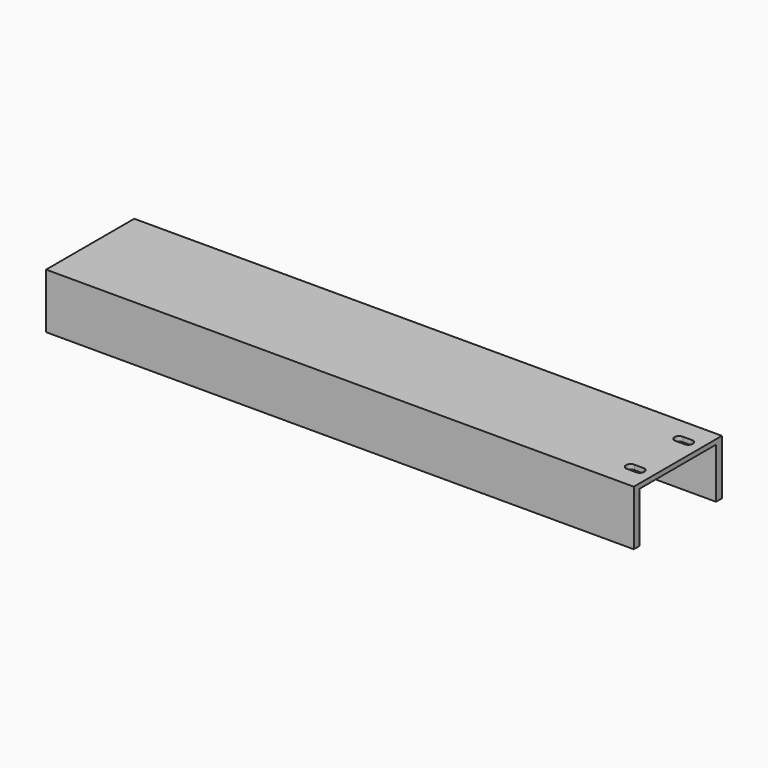
from build123d import *

# Parameters (mm, degrees)
F1_DEPTH = 203.2
F3_DEPTH = 3.302


with BuildPart() as f1:
    # F0 (on Right) → F1 (new body, symmetric)
    with BuildSketch(Plane.YZ):
        Polygon((38.1, 0), (-38.1, 0), (-38.1, -38.1), (-33.02, -38.1), (-33.02, -3.302), (33.02, -3.302), (33.02, -38.1), (38.1, -38.1), align=None)
    extrude(amount=F1_DEPTH, both=True)

    # F2 (on face) → F3 (cut, through all)
    with BuildSketch(Plane.XY):
        with BuildLine():
            Line((187.325, 17.78), (193.675, 17.78))
            ThreePointArc((193.675, 17.78), (195.920064, 18.709936), (196.85, 20.955))
            ThreePointArc((196.85, 20.955), (195.920064, 23.200064), (193.675, 24.13))
            Line((193.675, 24.13), (187.325, 24.13))
            ThreePointArc((187.325, 24.13), (185.079936, 23.200064), (184.15, 20.955))
            ThreePointArc((184.15, 20.955), (185.079936, 18.709936), (187.325, 17.78))
        make_face()
        with BuildLine():
            ThreePointArc((196.85, -20.955), (195.920064, -18.709936), (193.675, -17.78))
            Line((193.675, -17.78), (187.325, -17.78))
            ThreePointArc((187.325, -17.78), (185.079936, -18.709936), (184.15, -20.955))
            ThreePointArc((184.15, -20.955), (185.079936, -23.200064), (187.325, -24.13))
            Line((187.325, -24.13), (193.675, -24.13))
            ThreePointArc((193.675, -24.13), (195.920064, -23.200064), (196.85, -20.955))
        make_face()
    extrude(amount=-F3_DEPTH, mode=Mode.SUBTRACT)


solid = f1.part
